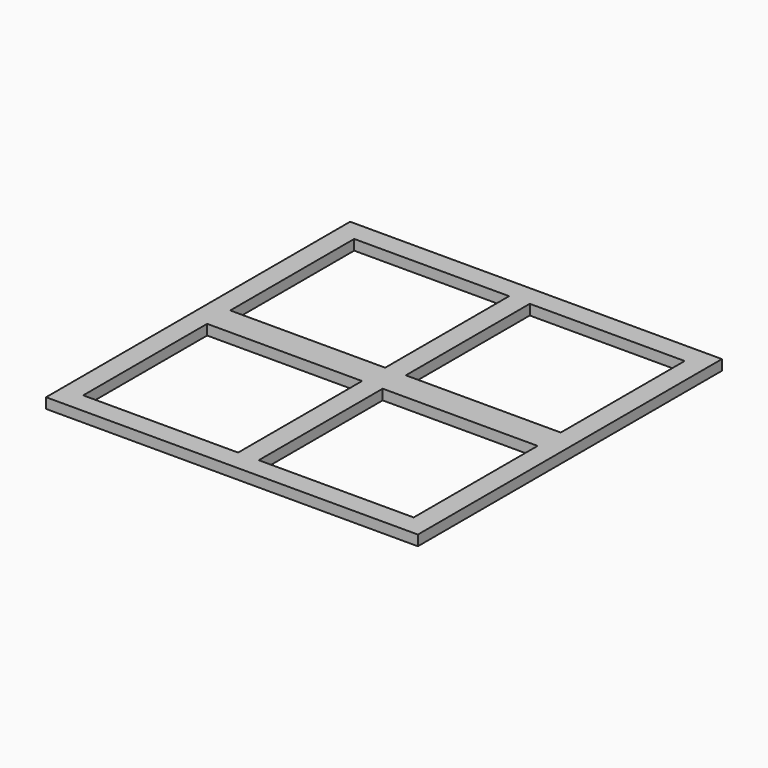
from build123d import *

# Parameters (mm, degrees)
SKETCH_W                     = 180
SKETCH_H                     = 184
PAD_DEPTH                    = 5
SKETCH001_W                  = 75
SKETCH001_H                  = 75
POCKET_DEPTH                 = 5
SKETCH001_LINEARPATTERN_2_W  = 75
SKETCH001_LINEARPATTERN_2_H  = 75
POCKET_LINEARPATTERN_2_DEPTH = 5
LINEARPATTERN001_COUNT       = 2
LINEARPATTERN001_PITCH       = 89


with BuildPart() as part:
    # Sketch → Pad (new body)
    with BuildSketch(Plane.XY):
        with Locations((90, 92.039833)):
            Rectangle(SKETCH_W, SKETCH_H)
    extrude(amount=PAD_DEPTH)

    # Sketch001 (on Face6 of Pad) → Pocket (cut)
    with BuildSketch(Plane.XY.offset(5)):
        with Locations((47.5, 136.5)):
            Rectangle(SKETCH001_W, SKETCH001_H)
    pocket = extrude(amount=-POCKET_DEPTH, mode=Mode.SUBTRACT)

    # Sketch001 LinearPattern 2 → Pocket LinearPattern 2 (cut)
    with BuildSketch(Plane(origin=(85, 0, 5), x_dir=(1, 0, 0), z_dir=(0, 0, 1))):
        with Locations((47.5, 136.5)):
            Rectangle(SKETCH001_LINEARPATTERN_2_W, SKETCH001_LINEARPATTERN_2_H)
    pocket_linearpattern_2 = extrude(amount=-POCKET_LINEARPATTERN_2_DEPTH, mode=Mode.SUBTRACT)

    # LinearPattern001: Pocket, Pocket LinearPattern 2 ×2
    with Locations(*[(0, -i * LINEARPATTERN001_PITCH, 0) for i in range(1, LINEARPATTERN001_COUNT)]):
        add(pocket, mode=Mode.SUBTRACT)
        add(pocket_linearpattern_2, mode=Mode.SUBTRACT)


solid = part.part
